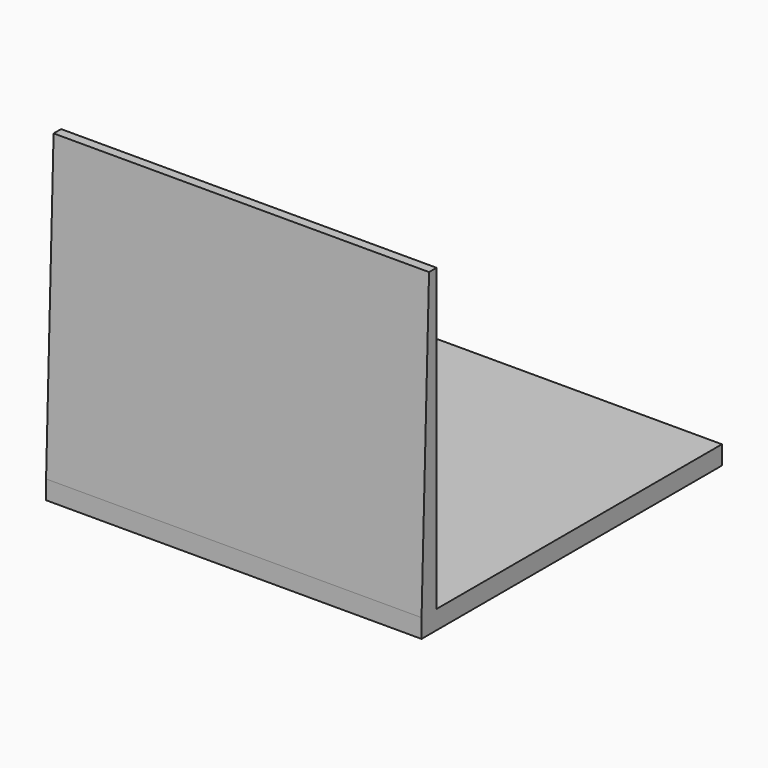
from build123d import *

# Parameters (mm, degrees)
F0_W     = 63.5
F0_H     = 63.5
F1_DEPTH = 3.175
F2_W     = 63.5
F2_H     = 3.175
F3_DEPTH = 50.8
F5_DEPTH = 63.5


with BuildPart() as f1:
    # F0 (on Top) → F1 (new body)
    with BuildSketch(Plane.XY):
        with Locations((-31.75, -31.75)):
            Rectangle(F0_W, F0_H)
    extrude(amount=F1_DEPTH)

    # F2 (on face) → F3 (join)
    with BuildSketch(Plane.XY.offset(3.175)):
        with Locations((-31.75, -61.9125)):
            Rectangle(F2_W, F2_H)
    extrude(amount=F3_DEPTH)

    # F4 (on face) → F5 (cut)
    with BuildSketch(Plane(origin=(-63.5, 0, 0), x_dir=(0, -1, 0), z_dir=(-1, 0, 0))):
        Polygon((61.9125, 53.975), (63.5, 3.175), (63.5, 53.975), align=None)
    extrude(amount=-F5_DEPTH, mode=Mode.SUBTRACT)


solid = f1.part
